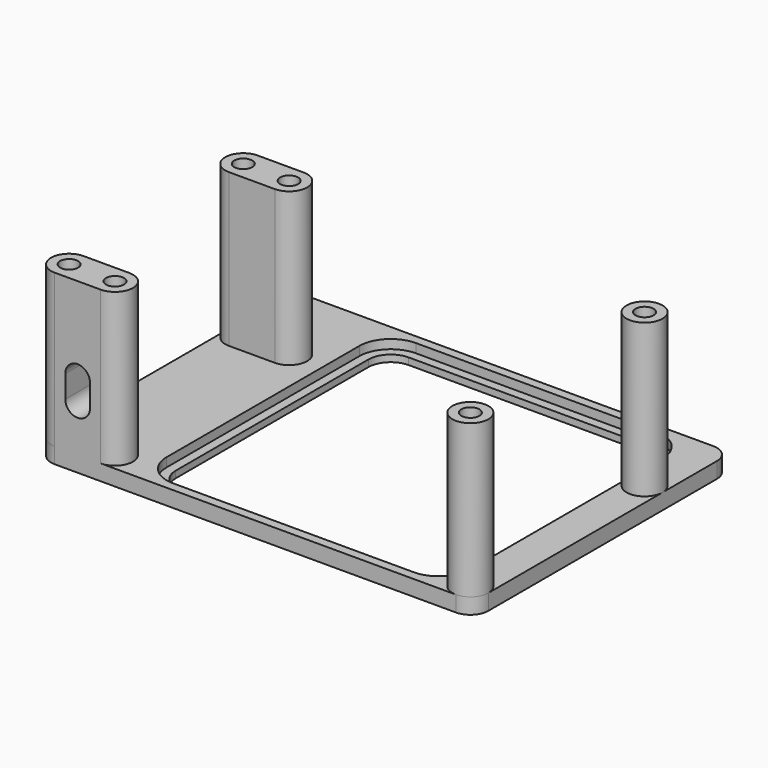
from build123d import *

# Parameters (mm, degrees)
PAD_DEPTH       = 2
PAD001_DEPTH    = 1.5
SKETCH002_R     = 4
PAD002_DEPTH    = 34
POCKET_DEPTH    = 8.001
SKETCH009_R     = 2
POCKET003_DEPTH = 5


with BuildPart() as part:
    # Sketch → Pad (new body)
    with BuildSketch(Plane.XY):
        with BuildLine():
            Line((-51.45, 35.75), (37.75, 35.75))
            ThreePointArc((41.75, 31.75), (40.578427, 34.578427), (37.75, 35.75))
            Line((41.75, 31.75), (41.75, -31.75))
            ThreePointArc((37.75, -35.75), (40.578427, -34.578427), (41.75, -31.75))
            Line((37.75, -35.75), (-51.45, -35.75))
            ThreePointArc((-55.45, -31.75), (-54.278427, -34.578427), (-51.45, -35.75))
            Line((-55.45, -31.75), (-55.45, 31.75))
            ThreePointArc((-51.45, 35.75), (-54.278427, 34.578427), (-55.45, 31.75))
        make_face()
        with BuildLine():
            Line((-26.75, -33.75), (26.75, -33.75))
            ThreePointArc((26.75, -33.75), (31.699747, -31.699747), (33.75, -26.75))
            Line((33.75, -26.75), (33.75, 26.75))
            ThreePointArc((33.75, 26.75), (31.699747, 31.699747), (26.75, 33.75))
            Line((26.75, 33.75), (-26.75, 33.75))
            ThreePointArc((-26.75, 33.75), (-31.699747, 31.699747), (-33.75, 26.75))
            Line((-33.75, 26.75), (-33.75, -26.75))
            ThreePointArc((-33.75, -26.75), (-31.699747, -31.699747), (-26.75, -33.75))
        make_face(mode=Mode.SUBTRACT)
    extrude(amount=PAD_DEPTH)

    # Sketch001 (on Face17 of Pad) → Pad001 (join)
    with BuildSketch(Plane(origin=(0, 0, 0), x_dir=(1, 0, 0), z_dir=(0, 0, -1))):
        with BuildLine():
            ThreePointArc((-51.45, 35.75), (-54.278427, 34.578427), (-55.45, 31.75))
            Line((-55.45, 31.75), (-55.45, -31.75))
            ThreePointArc((-55.45, -31.75), (-54.278427, -34.578427), (-51.45, -35.75))
            Line((37.75, -35.75), (-51.45, -35.75))
            ThreePointArc((37.75, -35.75), (40.578427, -34.578427), (41.75, -31.75))
            Line((41.75, 31.75), (41.75, -31.75))
            ThreePointArc((41.75, 31.75), (40.578427, 34.578427), (37.75, 35.75))
            Line((-51.45, 35.75), (37.75, 35.75))
        make_face()
        with BuildLine():
            ThreePointArc((-26.75, 31.75), (-30.285534, 30.285534), (-31.75, 26.75))
            Line((-31.75, -26.75), (-31.75, 26.75))
            ThreePointArc((-31.75, -26.75), (-30.285534, -30.285534), (-26.75, -31.75))
            Line((26.75, -31.75), (-26.75, -31.75))
            ThreePointArc((26.75, -31.75), (30.285534, -30.285534), (31.75, -26.75))
            Line((31.75, 26.75), (31.75, -26.75))
            ThreePointArc((31.75, 26.75), (30.285534, 30.285534), (26.75, 31.75))
            Line((-26.75, 31.75), (26.75, 31.75))
        make_face(mode=Mode.SUBTRACT)
    extrude(amount=PAD001_DEPTH)

    # Sketch002 (on Face5 of Pad001) → Pad002 (join)
    with BuildSketch(Plane.XY.offset(2)):
        with Locations((37.75, -31.75)):
            Circle(SKETCH002_R)
        with Locations((37.75, 16.65)):
            Circle(SKETCH002_R)
        with BuildLine():
            ThreePointArc((-51.45, 20.65), (-55.45, 16.65), (-51.45, 12.65))
            Line((-51.45, 12.65), (-41.25, 12.65))
            ThreePointArc((-41.25, 12.65), (-37.25, 16.65), (-41.25, 20.65))
            Line((-41.25, 20.65), (-51.45, 20.65))
        make_face()
        with BuildLine():
            ThreePointArc((-41.25, -35.75), (-37.25, -31.75), (-41.25, -27.75))
            Line((-41.25, -27.75), (-51.45, -27.75))
            ThreePointArc((-51.45, -27.75), (-55.45, -31.75), (-51.45, -35.75))
            Line((-51.45, -35.75), (-41.25, -35.75))
        make_face()
    extrude(amount=PAD002_DEPTH)

    # Sketch003 (on Face16 of Pad002) → Pocket (cut, through all)
    with BuildSketch(Plane(origin=(0, -27.75, 0), x_dir=(-1, 0, 0), z_dir=(0, 1, 0))):
        with BuildLine():
            ThreePointArc((43.6, 12), (46.35, 9.25), (49.1, 12))
            Line((49.1, 12), (49.1, 17))
            ThreePointArc((49.1, 17), (46.35, 19.75), (43.6, 17))
            Line((43.6, 17), (43.6, 12))
        make_face()
    extrude(amount=-POCKET_DEPTH, mode=Mode.SUBTRACT)

    # Sketch009 (on Face33 of Pocket) → Pocket003 (cut)
    with BuildSketch(Plane.XY.offset(36)):
        with Locations((-51.45, 16.65)):
            Circle(SKETCH009_R)
        with Locations((-41.25, 16.65)):
            Circle(SKETCH009_R)
        with Locations((37.75, 16.65)):
            Circle(SKETCH009_R)
        with Locations((37.75, -31.75)):
            Circle(SKETCH009_R)
        with Locations((-41.25, -31.75)):
            Circle(SKETCH009_R)
        with Locations((-51.45, -31.75)):
            Circle(SKETCH009_R)
    extrude(amount=-POCKET003_DEPTH, mode=Mode.SUBTRACT)


solid = part.part
